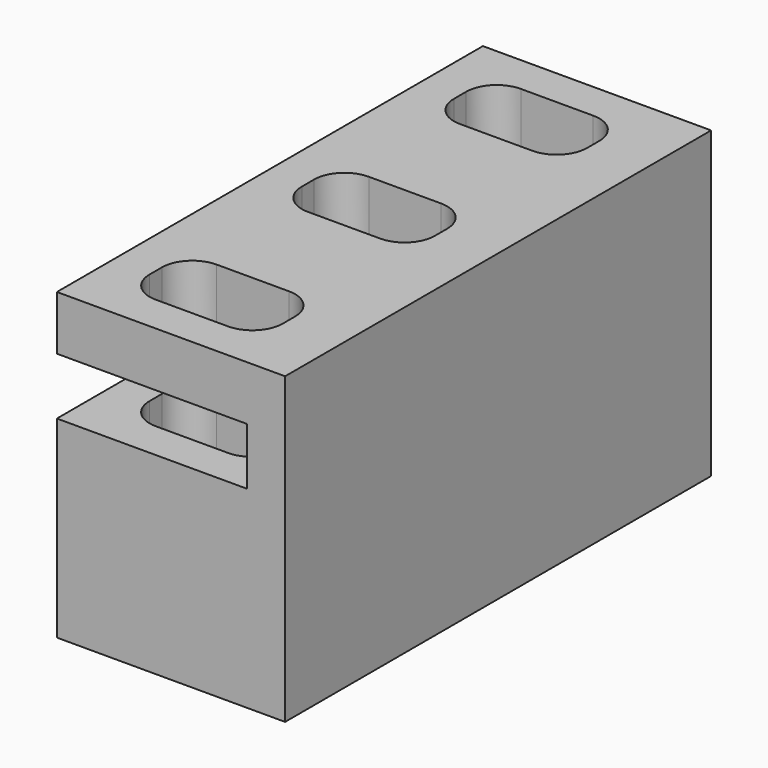
from build123d import *

# Parameters (mm, degrees)
F0_W     = 19.05
F0_H     = 44.45
F1_DEPTH = 25.4
F2_W     = 15.875
F2_H     = 4.7625
F2_W_2   = 9.525
F3_DEPTH = 45.974


with BuildPart() as f1:
    # F0 (on Top) → F1 (new body)
    with BuildSketch(Plane.XY):
        with Locations((0, -22.225)):
            Rectangle(F0_W, F0_H)
        with BuildLine():
            ThreePointArc((-6.35, -37.465), (-5.606051, -35.668949), (-3.81, -34.925))
            Line((-3.81, -34.925), (2.2225, -34.925))
            ThreePointArc((2.2225, -34.925), (4.018551, -35.668949), (4.7625, -37.465))
            Line((4.7625, -37.465), (4.7625, -38.735))
            ThreePointArc((4.7625, -38.735), (4.018551, -40.531051), (2.2225, -41.275))
            Line((2.2225, -41.275), (-3.81, -41.275))
            ThreePointArc((-3.81, -41.275), (-5.606051, -40.531051), (-6.35, -38.735))
            Line((-6.35, -38.735), (-6.35, -37.465))
        make_face(mode=Mode.SUBTRACT)
        with BuildLine():
            ThreePointArc((-6.35, -21.59), (-5.606051, -19.793949), (-3.81, -19.05))
            Line((-3.81, -19.05), (2.2225, -19.05))
            ThreePointArc((2.2225, -19.05), (4.018551, -19.793949), (4.7625, -21.59))
            Line((4.7625, -21.59), (4.7625, -22.86))
            ThreePointArc((4.7625, -22.86), (4.018551, -24.656051), (2.2225, -25.4))
            Line((2.2225, -25.4), (-3.81, -25.4))
            ThreePointArc((-3.81, -25.4), (-5.606051, -24.656051), (-6.35, -22.86))
            Line((-6.35, -22.86), (-6.35, -21.59))
        make_face(mode=Mode.SUBTRACT)
        with BuildLine():
            ThreePointArc((-6.35, -5.715), (-5.606051, -3.918949), (-3.81, -3.175))
            Line((-3.81, -3.175), (2.2225, -3.175))
            ThreePointArc((2.2225, -3.175), (4.018551, -3.918949), (4.7625, -5.715))
            Line((4.7625, -5.715), (4.7625, -6.985))
            ThreePointArc((4.7625, -6.985), (4.018551, -8.781051), (2.2225, -9.525))
            Line((2.2225, -9.525), (-3.81, -9.525))
            ThreePointArc((-3.81, -9.525), (-5.606051, -8.781051), (-6.35, -6.985))
            Line((-6.35, -6.985), (-6.35, -5.715))
        make_face(mode=Mode.SUBTRACT)
    extrude(amount=F1_DEPTH)

    # F2 (on face) → F3 (cut)
    with BuildSketch(Plane(origin=(0, 0, 0), x_dir=(-1, 0, 0), z_dir=(0, 1, 0))):
        with Locations((1.5875, 18.481419)):
            Rectangle(F2_W, F2_H)
        with Locations((14.2875, 18.481419)):
            Rectangle(F2_W_2, F2_H)
    extrude(amount=-F3_DEPTH, mode=Mode.SUBTRACT)


solid = f1.part
